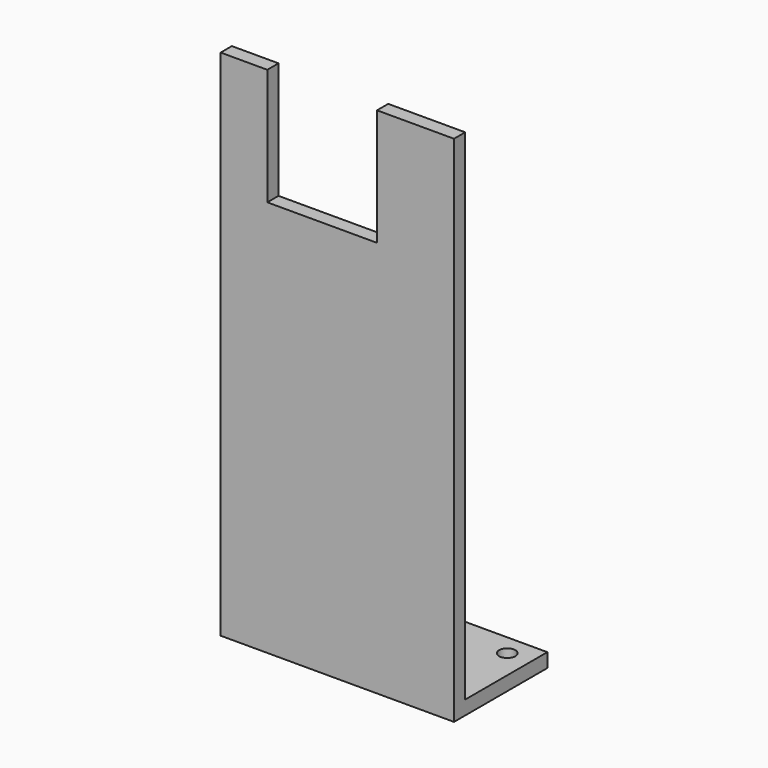
from build123d import *

# Parameters (mm, degrees)
F0_W     = 6
F0_H     = 214
F0_H_2   = 6
F0_W_2   = 44
F1_DEPTH = 100
F3_D     = 7
F4_W     = 47
F4_H     = 50
F5_DEPTH = 25


with BuildPart() as f1:
    # F0 (on Right) → F1 (new body)
    with BuildSketch(Plane.YZ):
        with Locations((-3, 113)):
            Rectangle(F0_W, F0_H)
        with Locations((-3, 3)):
            Rectangle(F0_W, F0_H_2)
        with Locations((-28, 3)):
            Rectangle(F0_W_2, F0_H_2)
    extrude(amount=F1_DEPTH)

    # F3 (through all)
    with Locations(Plane(origin=(0, 0, 0), x_dir=(1, 0, 0), z_dir=(0, 0, -1))):
        with Locations((30, 41.0281047225), (90, 41.0281047225)):
            Hole(F3_D / 2)

    # F4 (on Front) → F5 (cut)
    with BuildSketch(Plane.XZ):
        with Locations((43.5, 195)):
            Rectangle(F4_W, F4_H)
    extrude(amount=F5_DEPTH, mode=Mode.SUBTRACT)


with BuildPart() as f6_1:
    # F6: instance of F1
    add(f1.part.mirror(Plane.XZ))


with BuildPart() as f8_1:
    # F8: instance of F1
    add(f1.part.mirror(Plane.XZ))


solid = f8_1.part
